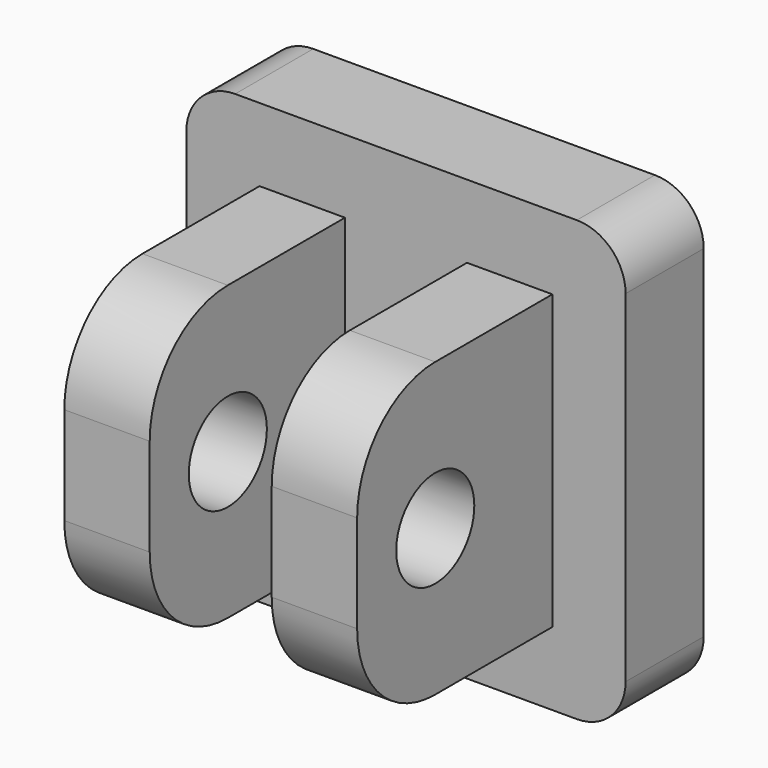
from build123d import *

# Parameters (mm, degrees)
F0_W     = 2.5
F0_H     = 6
F0_R     = 1.2
F1_DEPTH = 2
F0_W_2   = 1.75
F2_DEPTH = 7
F3_R     = 1
F4_DEPTH = 6
F5_R     = 2
F6_R     = 2


with BuildPart() as f1:
    # F0 (on Front) → F1 (new body)
    with BuildSketch(Plane.XZ):
        with BuildLine():
            Line((-3.5, -4.5), (3.5, -4.5))
            ThreePointArc((3.5, -4.5), (4.2071067812, -4.2071067812), (4.5, -3.5))
            Line((4.5, -3.5), (4.5, 3.5))
            ThreePointArc((4.5, 3.5), (4.2071067812, 4.2071067812), (3.5, 4.5))
            Line((3.5, 4.5), (-3.5, 4.5))
            ThreePointArc((-3.5, 4.5), (-4.2071067812, 4.2071067812), (-4.5, 3.5))
            Line((-4.5, 3.5), (-4.5, -3.5))
            ThreePointArc((-4.5, -3.5), (-4.2071067812, -4.2071067812), (-3.5, -4.5))
        make_face()
        Polygon((3, 3), (3, -3), (1.25, -3), (-1.25, -3), (-3, -3), (-3, 3), (-1.25, 3), (1.25, 3), align=None, mode=Mode.SUBTRACT)
        Rectangle(F0_W, F0_H)
        Circle(F0_R, mode=Mode.SUBTRACT)
        Rectangle(F0_W, F0_H)
        Circle(F0_R, mode=Mode.SUBTRACT)
    extrude(amount=F1_DEPTH)

    # F0 (on Front) → F2 (join)
    with BuildSketch(Plane.XZ):
        with Locations((-2.125, 0)):
            Rectangle(F0_W_2, F0_H)
        with Locations((2.125, 0)):
            Rectangle(F0_W_2, F0_H)
    extrude(amount=F2_DEPTH)

    # F3 (on face) → F4 (cut)
    with BuildSketch(Plane.YZ.offset(3)):
        with Locations((-5, 0)):
            Circle(F3_R)
    extrude(amount=-F4_DEPTH, mode=Mode.SUBTRACT)

    # F5
    f5_edges = [f1.edges().sort_by_distance(p)[0] for p in [
        (2.125, -7, 3),
    ]]
    fillet(f5_edges, radius=F5_R)

    # F6
    f6_edges = [f1.edges().sort_by_distance(p)[0] for p in [
        (-2.125, -7, 3),
        (-2.125, -7, -3),
        (2.125, -7, -3),
    ]]
    fillet(f6_edges, radius=F6_R)


solid = f1.part
